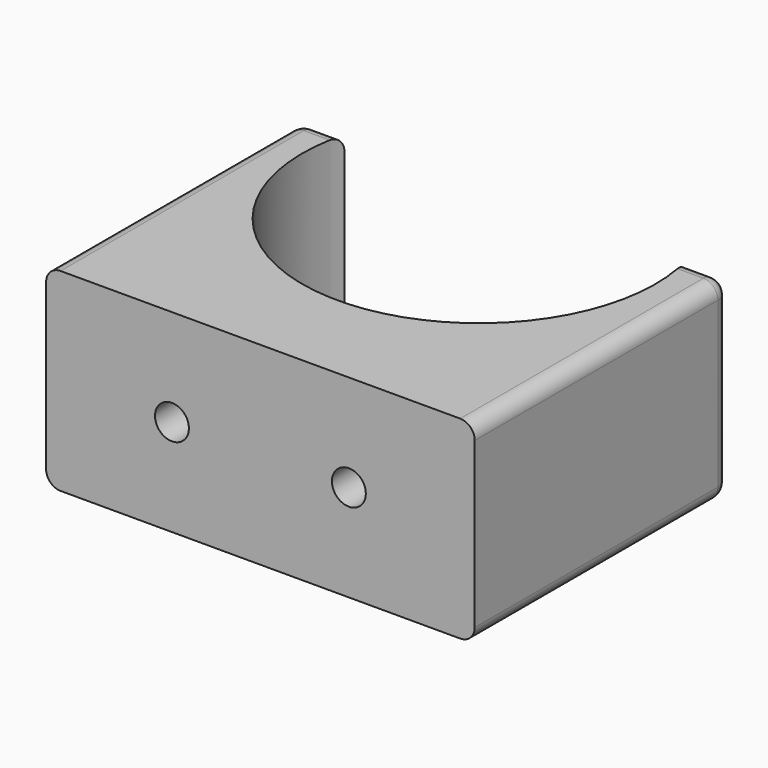
from build123d import *

# Parameters (mm, degrees)
PAD_DEPTH       = 20
SKETCH001_R     = 1.75
POCKET_DEPTH    = 32.88897
SKETCH002_R     = 5
POCKET001_DEPTH = 24
CHAMFER_SIZE    = 1.5
FILLET_R        = 1.5


with BuildPart() as part:
    # Sketch → Pad (new body)
    with BuildSketch(Plane.XY):
        with BuildLine():
            Line((-22.137351, -15.487065), (22.137351, -15.487065))
            Line((22.137351, 17.400905), (22.137351, -15.487065))
            Line((17.637351, 17.400905), (22.137351, 17.400905))
            ThreePointArc((-17.637351, 17.400905), (0, -5.538054), (17.637351, 17.400905))
            Line((-22.137351, 17.400905), (-17.637351, 17.400905))
            Line((-22.137351, -15.487065), (-22.137351, 17.400905))
        make_face()
    extrude(amount=PAD_DEPTH)

    # Sketch001 (on Face1 of Pad) → Pocket (cut, through all)
    with BuildSketch(Plane.XZ.offset(15.487065)):
        with Locations((-9.137351, 10)):
            Circle(SKETCH001_R)
        with Locations((9.137351, 10)):
            Circle(SKETCH001_R)
    extrude(amount=-POCKET_DEPTH, mode=Mode.SUBTRACT)

    # Sketch002 (on Face9 of Pocket) → Pocket001 (cut)
    with BuildSketch(Plane(origin=(0, 17.400905, 0), x_dir=(-1, 0, 0), z_dir=(0, 1, 0))):
        with Locations((-9.137351, 10)):
            Circle(SKETCH002_R)
        with Locations((9.137351, 10)):
            Circle(SKETCH002_R)
    extrude(amount=-POCKET001_DEPTH, mode=Mode.SUBTRACT)

    # Chamfer
    chamfer_edges = [part.edges().sort_by_distance(p)[0] for p in [
        (7.387351, -6.599095, 10),
        (-10.887351, -6.599095, 10),
    ]]
    chamfer(chamfer_edges, length=CHAMFER_SIZE)

    # Fillet
    fillet_edges = [part.edges().sort_by_distance(p)[0] for p in [
        (22.137351, 0.95692, 20),
        (19.887351, 17.400905, 20),
        (22.137351, 17.400905, 10),
        (19.887351, 17.400905, 0),
        (22.137351, 0.95692, 0),
        (-19.887351, 17.400905, 20),
        (-22.137351, 17.400905, 10),
        (-22.137351, 0.95692, 20),
        (-19.887351, 17.400905, 0),
        (-22.137351, 0.95692, 0),
    ]]
    fillet(fillet_edges, radius=FILLET_R)


solid = part.part
